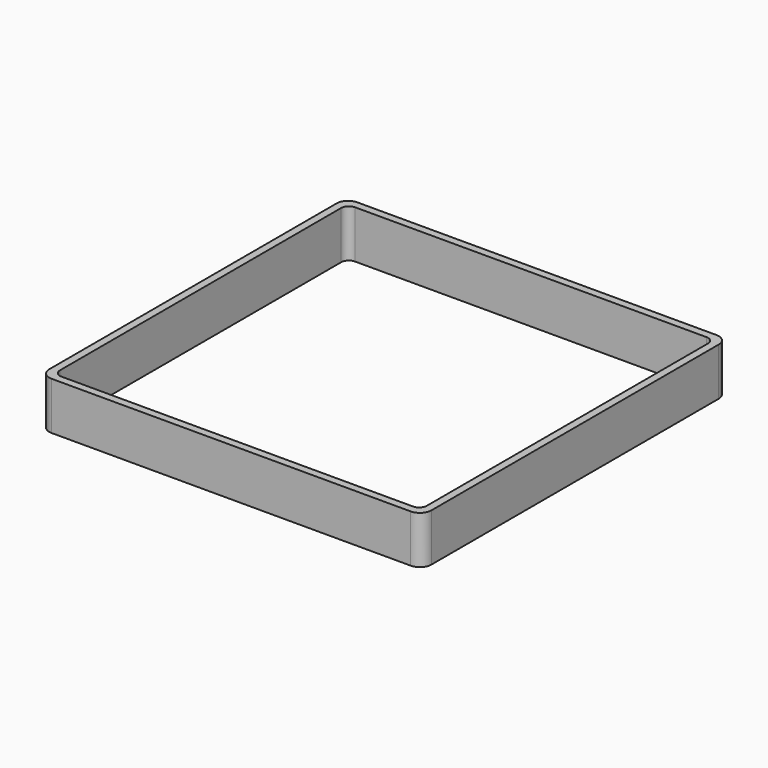
from build123d import *

# Parameters (mm, degrees)
EXTRUDE_DEPTH = 50


with BuildPart() as part:
    # Sketch → Extrude (new body)
    with BuildSketch(Plane.XY):
        with BuildLine():
            Line((-188, 200), (188, 200))
            ThreePointArc((200, 188), (196.485281, 196.485281), (188, 200))
            Line((200, 188), (200, -188))
            ThreePointArc((188, -200), (196.485281, -196.485281), (200, -188))
            Line((188, -200), (-188, -200))
            ThreePointArc((-200, -188), (-196.485281, -196.485281), (-188, -200))
            Line((-200, -188), (-200, 188))
            ThreePointArc((-188, 200), (-196.485281, 196.485281), (-200, 188))
        make_face()
        with BuildLine():
            Line((-184, 192), (184, 192))
            ThreePointArc((192, 184), (189.656854, 189.656854), (184, 192))
            Line((192, 184), (192, -184))
            ThreePointArc((184, -192), (189.656854, -189.656854), (192, -184))
            Line((184, -192), (-184, -192))
            ThreePointArc((-192, -184), (-189.656854, -189.656854), (-184, -192))
            Line((-192, -184), (-192, 184))
            ThreePointArc((-184, 192), (-189.656854, 189.656854), (-192, 184))
        make_face(mode=Mode.SUBTRACT)
    extrude(amount=EXTRUDE_DEPTH)


solid = part.part
